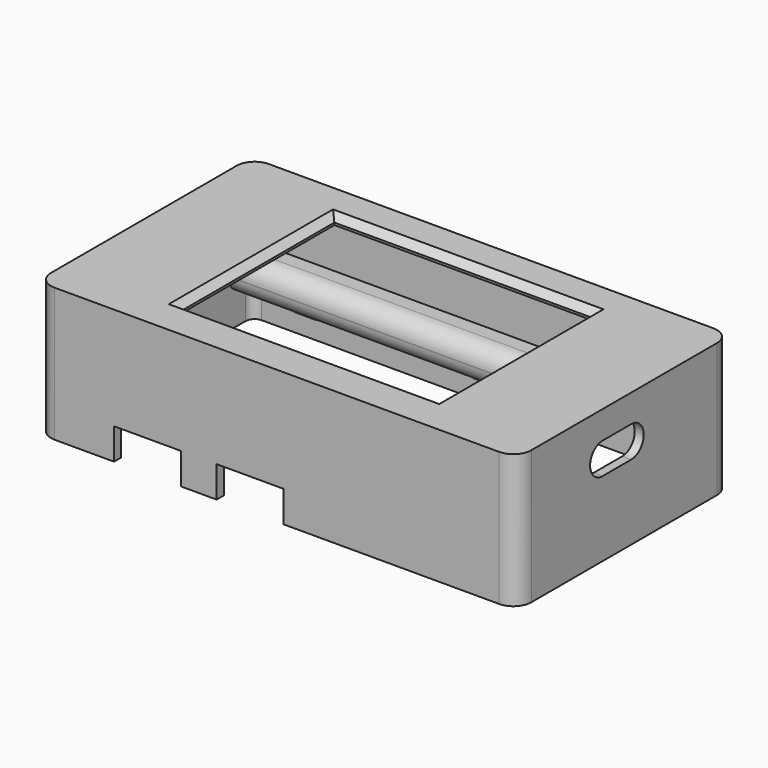
from build123d import *

# Parameters (mm, degrees)
CYLINDER016_R     = 2.65
CYLINDER016_DEPTH = 90
BOX077_W          = 12
BOX077_H          = 7.6
BOX077_DEPTH      = 5.5
FILLET013_1_R     = 4
FILLET013_2_R     = 2.5
BOX076_W          = 80
BOX076_H          = 9
BOX076_DEPTH      = 8
FILLET012_1_R     = 4
FILLET012_2_R     = 3.95
BOX013_W          = 13
BOX013_H          = 12
BOX013_DEPTH      = 5
BOX014_W          = 3
BOX014_H          = 12
BOX014_DEPTH      = 4
BOX012_W          = 15
BOX012_H          = 8
BOX012_DEPTH      = 7
BOX010_W          = 13
BOX010_H          = 12
BOX010_DEPTH      = 5
BOX011_W          = 3
BOX011_H          = 12
BOX011_DEPTH      = 4
BOX009_W          = 15
BOX009_H          = 8
BOX009_DEPTH      = 7
BOX006_W          = 5
BOX006_H          = 1
BOX006_DEPTH      = 3
BOX007_W          = 5
BOX007_H          = 1
BOX007_DEPTH      = 3
BOX008_W          = 5
BOX008_H          = 1
BOX008_DEPTH      = 3
BOX003_W          = 5
BOX003_H          = 1
BOX003_DEPTH      = 3
BOX004_W          = 5
BOX004_H          = 1
BOX004_DEPTH      = 3
BOX005_W          = 5
BOX005_H          = 1
BOX005_DEPTH      = 3
EXTRUDE_DEPTH     = 10
BOX_W             = 57.6
BOX_H             = 43
BOX_DEPTH         = 20
BOX002_W          = 103.6
BOX002_H          = 56
BOX002_DEPTH      = 30
BOX001_W          = 107.6
BOX001_H          = 60
BOX001_DEPTH      = 30
FILLET_1_R        = 4
FILLET_2_R        = 2
CHAMFER_SIZE      = 1.5
CYLINDER007_R     = 1
CYLINDER007_DEPTH = 6
CYLINDER006_R     = 1
CYLINDER006_DEPTH = 6
CYLINDER005_R     = 1
CYLINDER005_DEPTH = 6
CYLINDER004_R     = 1
CYLINDER004_DEPTH = 6
CYLINDER003_R     = 2.5
CYLINDER003_DEPTH = 4.6
CYLINDER002_R     = 2.5
CYLINDER002_DEPTH = 4.6
CYLINDER001_R     = 2.5
CYLINDER001_DEPTH = 4.6
CYLINDER_R        = 2.5
CYLINDER_DEPTH    = 4.6
FILLET001_R       = 2
CHAMFER005_SIZE   = 0.4


with BuildPart() as sfera:
    # Sphere → Sphere (revolve)
    with BuildSketch(Plane(origin=(50, 87, 4), x_dir=(1, 0, 0), z_dir=(0, -1, 0))):
        with BuildLine():
            ThreePointArc((0, -1.5), (1.5, 0), (0, 1.5))
            Line((0, 1.5), (0, -1.5))
        make_face()
    revolve(axis=Axis((50, 87, 4), (0, 0, 1)))


with BuildPart() as cilindro016:
    # Cylinder016 → Cylinder016 (new body)
    with BuildSketch(Plane(origin=(12, 2.75, 2.5), x_dir=(0, 0, -1), z_dir=(1, 0, 0))):
        Circle(CYLINDER016_R)
    extrude(amount=CYLINDER016_DEPTH)


with BuildPart() as fusion047:
    # Box077 → Box077 (new body)
    with BuildSketch(Plane(origin=(0, 0.25, -0.25), x_dir=(1, 0, 0), z_dir=(0, 0, 1))):
        with Locations((6, 3.8)):
            Rectangle(BOX077_W, BOX077_H)
    extrude(amount=BOX077_DEPTH)

    # Fillet013 1
    fillet013_1_edges = [fusion047.edges().sort_by_distance(p)[0] for p in [
        (0, 7.85, 2.5),
    ]]
    fillet(fillet013_1_edges, radius=FILLET013_1_R)

    # Fillet013 2
    fillet013_2_edges = [fusion047.edges().sort_by_distance(p)[0] for p in [
        (6, 0.25, -0.25),
        (6, 0.25, 5.25),
    ]]
    fillet(fillet013_2_edges, radius=FILLET013_2_R)

    # Fusion047: union Cilindro016
    add(cilindro016.part)


with BuildPart() as fusion047_1:
    # Fusion047 placement: moved
    add(fusion047.part.moved(Location((43.7, 86.7, 1.5))))


with BuildPart() as fillet012:
    # Box076 → Box076 (new body)
    with BuildSketch(Plane.XY):
        with Locations((40, 4.5)):
            Rectangle(BOX076_W, BOX076_H)
    extrude(amount=BOX076_DEPTH)

    # Fillet012 1
    fillet012_1_edges = [fillet012.edges().sort_by_distance(p)[0] for p in [
        (0, 9, 4),
    ]]
    fillet(fillet012_1_edges, radius=FILLET012_1_R)

    # Fillet012 2
    fillet012_2_edges = [fillet012.edges().sort_by_distance(p)[0] for p in [
        (40, 0, 0),
        (40, 0, 8),
    ]]
    fillet(fillet012_2_edges, radius=FILLET012_2_R)


with BuildPart() as fillet012_1:
    # Fillet012 placement: moved
    add(fillet012.part.moved(Location((43.71, 85.2, 0))))


with BuildPart() as cubo013:
    # Box013 → Box013 (new body)
    with BuildSketch(Plane(origin=(1, 8, 1), x_dir=(1, 0, 0), z_dir=(0, 0, 1))):
        with Locations((6.5, 6)):
            Rectangle(BOX013_W, BOX013_H)
    extrude(amount=BOX013_DEPTH)


with BuildPart() as cubo014:
    # Box014 → Box014 (new body)
    with BuildSketch(Plane(origin=(5.5, 8, -3), x_dir=(1, 0, 0), z_dir=(0, 0, 1))):
        with Locations((1.5, 6)):
            Rectangle(BOX014_W, BOX014_H)
    extrude(amount=BOX014_DEPTH)


with BuildPart() as fusion011:
    # Box012 → Box012 (new body)
    with BuildSketch(Plane.XY):
        with Locations((7.5, 4)):
            Rectangle(BOX012_W, BOX012_H)
    extrude(amount=BOX012_DEPTH)

    # Fusion011: union Cubo013, Cubo014
    add(cubo013.part)
    add(cubo014.part)


with BuildPart() as fusion011_1:
    # Fusion011 placement: moved
    add(fusion011.part.moved(Location((23, 0, 0))))


with BuildPart() as cubo010:
    # Box010 → Box010 (new body)
    with BuildSketch(Plane(origin=(1, 8, 1), x_dir=(1, 0, 0), z_dir=(0, 0, 1))):
        with Locations((6.5, 6)):
            Rectangle(BOX010_W, BOX010_H)
    extrude(amount=BOX010_DEPTH)


with BuildPart() as cubo011:
    # Box011 → Box011 (new body)
    with BuildSketch(Plane(origin=(5.5, 8, -3), x_dir=(1, 0, 0), z_dir=(0, 0, 1))):
        with Locations((1.5, 6)):
            Rectangle(BOX011_W, BOX011_H)
    extrude(amount=BOX011_DEPTH)


with BuildPart() as fusion012:
    # Box009 → Box009 (new body)
    with BuildSketch(Plane.XY):
        with Locations((7.5, 4)):
            Rectangle(BOX009_W, BOX009_H)
    extrude(amount=BOX009_DEPTH)

    # Fusion010: union Cubo010, Cubo011
    add(cubo010.part)
    add(cubo011.part)

    # Fusion012: union Fusion011
    add(fusion011_1.part)


with BuildPart() as fusion012_1:
    # Fusion012 placement: moved
    add(fusion012.part.moved(Location((61, 34, -7))))


with BuildPart() as cubo006:
    # Box006 → Box006 (new body)
    with BuildSketch(Plane.XY):
        with Locations((2.5, 0.5)):
            Rectangle(BOX006_W, BOX006_H)
    extrude(amount=BOX006_DEPTH)


with BuildPart() as cubo007:
    # Box007 → Box007 (new body)
    with BuildSketch(Plane(origin=(40, 0, 0), x_dir=(1, 0, 0), z_dir=(0, 0, 1))):
        with Locations((2.5, 0.5)):
            Rectangle(BOX007_W, BOX007_H)
    extrude(amount=BOX007_DEPTH)


with BuildPart() as fusion008:
    # Box008 → Box008 (new body)
    with BuildSketch(Plane(origin=(80, 0, 0), x_dir=(1, 0, 0), z_dir=(0, 0, 1))):
        with Locations((2.5, 0.5)):
            Rectangle(BOX008_W, BOX008_H)
    extrude(amount=BOX008_DEPTH)

    # Fusion008: union Cubo006, Cubo007
    add(cubo006.part)
    add(cubo007.part)


with BuildPart() as fusion008_1:
    # Fusion008 placement: moved
    add(fusion008.part.moved(Location((55, 92.3, 2))))


with BuildPart() as cubo003:
    # Box003 → Box003 (new body)
    with BuildSketch(Plane(origin=(-5, 0, 0), x_dir=(1, 0, 0), z_dir=(0, 0, 1))):
        with Locations((2.5, 0.5)):
            Rectangle(BOX003_W, BOX003_H)
    extrude(amount=BOX003_DEPTH)


with BuildPart() as cubo004:
    # Box004 → Box004 (new body)
    with BuildSketch(Plane(origin=(50, 0, 0), x_dir=(1, 0, 0), z_dir=(0, 0, 1))):
        with Locations((2.5, 0.5)):
            Rectangle(BOX004_W, BOX004_H)
    extrude(amount=BOX004_DEPTH)


with BuildPart() as fusion009:
    # Box005 → Box005 (new body)
    with BuildSketch(Plane(origin=(80, 0, 0), x_dir=(1, 0, 0), z_dir=(0, 0, 1))):
        with Locations((2.5, 0.5)):
            Rectangle(BOX005_W, BOX005_H)
    extrude(amount=BOX005_DEPTH)

    # Fusion007: union Cubo003, Cubo004
    add(cubo003.part)
    add(cubo004.part)


with BuildPart() as fusion009_1:
    # Fusion007 placement: moved
    add(fusion009.part.moved(Location((55, 35.3, 2))))

    # Fusion009: union Fusion008
    add(fusion008_1.part)


with BuildPart() as fusion009_2:
    # Fusion009 placement: moved
    add(fusion009_1.part.moved(Location((0, 0, -5))))


with BuildPart() as extrude_body:
    # Sketch → Extrude (new body)
    with BuildSketch(Plane.YZ):
        with BuildLine():
            Line((58.28, 4.78), (66.28, 4.78))
            ThreePointArc((66.28, 4.78), (69.78, 8.28), (66.28, 11.78))
            Line((58.28, 11.78), (66.28, 11.78))
            ThreePointArc((58.28, 11.78), (54.78, 8.28), (58.28, 4.78))
        make_face()
    extrude(amount=EXTRUDE_DEPTH)


with BuildPart() as extrude_body_1:
    # Extrude placement: moved
    add(extrude_body.part.moved(Location((145, 0, 5))))


with BuildPart() as cubo:
    # Box → Box (new body)
    with BuildSketch(Plane(origin=(68.7, 43.4, 10), x_dir=(1, 0, 0), z_dir=(0, 0, 1))):
        with Locations((28.8, 21.5)):
            Rectangle(BOX_W, BOX_H)
    extrude(amount=BOX_DEPTH)


with BuildPart() as cubo002:
    # Box002 → Box002 (new body)
    with BuildSketch(Plane(origin=(50.7, 36.3, -9), x_dir=(1, 0, 0), z_dir=(0, 0, 1))):
        with Locations((51.8, 28)):
            Rectangle(BOX002_W, BOX002_H)
    extrude(amount=BOX002_DEPTH)


with BuildPart() as chamfer_body:
    # Box001 → Box001 (new body)
    with BuildSketch(Plane(origin=(48.7, 34.3, -7), x_dir=(1, 0, 0), z_dir=(0, 0, 1))):
        with Locations((53.8, 30)):
            Rectangle(BOX001_W, BOX001_H)
    extrude(amount=BOX001_DEPTH)

    # Cut001: cut Cubo002
    add(cubo002.part, mode=Mode.SUBTRACT)

    # Fillet 1
    fillet_1_edges = [chamfer_body.edges().sort_by_distance(p)[0] for p in [
        (48.7, 34.3, 8),
        (48.7, 94.3, 8),
        (156.3, 34.3, 8),
        (156.3, 94.3, 8),
    ]]
    fillet(fillet_1_edges, radius=FILLET_1_R)

    # Fillet 2
    fillet_2_edges = [chamfer_body.edges().sort_by_distance(p)[0] for p in [
        (154.3, 36.3, 7),
        (102.5, 36.3, 21),
        (50.7, 36.3, 7),
        (154.3, 64.3, 21),
        (154.3, 92.3, 7),
        (102.5, 92.3, 21),
        (50.7, 92.3, 7),
        (50.7, 64.3, 21),
    ]]
    fillet(fillet_2_edges, radius=FILLET_2_R)


with BuildPart() as chamfer_body_1:
    # Fillet placement: moved
    add(chamfer_body.part.moved(Location((-5, 0, 0))))

    # Cut002: cut Cubo
    add(cubo.part, mode=Mode.SUBTRACT)

    # Chamfer
    chamfer_edges = [chamfer_body_1.edges().sort_by_distance(p)[0] for p in [
        (97.5, 43.4, 23),
        (126.3, 64.9, 23),
        (97.5, 86.4, 23),
        (68.7, 64.9, 23),
    ]]
    chamfer(chamfer_edges, length=CHAMFER_SIZE)


with BuildPart() as cilindro007:
    # Cylinder007 → Cylinder007 (new body)
    with BuildSketch(Plane(origin=(60.75, 85.25, 0), x_dir=(1, 0, 0), z_dir=(0, 0, 1))):
        Circle(CYLINDER007_R)
    extrude(amount=CYLINDER007_DEPTH)


with BuildPart() as fusion004:
    # Cylinder006 → Cylinder006 (new body)
    with BuildSketch(Plane(origin=(60.75, 43.4, 0), x_dir=(1, 0, 0), z_dir=(0, 0, 1))):
        Circle(CYLINDER006_R)
    extrude(amount=CYLINDER006_DEPTH)

    # Fusion004: union Cilindro007
    add(cilindro007.part)


with BuildPart() as fusion004_1:
    # Fusion004 placement: moved
    add(fusion004.part.moved(Location((78.25, 0, 0))))


with BuildPart() as cilindro005:
    # Cylinder005 → Cylinder005 (new body)
    with BuildSketch(Plane(origin=(60.75, 85.25, 0), x_dir=(1, 0, 0), z_dir=(0, 0, 1))):
        Circle(CYLINDER005_R)
    extrude(amount=CYLINDER005_DEPTH)


with BuildPart() as fusion005:
    # Cylinder004 → Cylinder004 (new body)
    with BuildSketch(Plane(origin=(60.75, 43.4, 0), x_dir=(1, 0, 0), z_dir=(0, 0, 1))):
        Circle(CYLINDER004_R)
    extrude(amount=CYLINDER004_DEPTH)

    # Fusion003: union Cilindro005
    add(cilindro005.part)

    # Fusion005: union Fusion004
    add(fusion004_1.part)


with BuildPart() as fusion005_1:
    # Fusion005 placement: moved
    add(fusion005.part.moved(Location((0, 0, -0.2))))


with BuildPart() as cilindro003:
    # Cylinder003 → Cylinder003 (new body)
    with BuildSketch(Plane(origin=(60.75, 85.25, -0.2), x_dir=(1, 0, 0), z_dir=(0, 0, 1))):
        Circle(CYLINDER003_R)
    extrude(amount=CYLINDER003_DEPTH)


with BuildPart() as fusion001:
    # Cylinder002 → Cylinder002 (new body)
    with BuildSketch(Plane(origin=(60.75, 43.4, -0.2), x_dir=(1, 0, 0), z_dir=(0, 0, 1))):
        Circle(CYLINDER002_R)
    extrude(amount=CYLINDER002_DEPTH)

    # Fusion001: union Cilindro003
    add(cilindro003.part)


with BuildPart() as fusion001_1:
    # Fusion001 placement: moved
    add(fusion001.part.moved(Location((78.25, 0, 0))))


with BuildPart() as cilindro001:
    # Cylinder001 → Cylinder001 (new body)
    with BuildSketch(Plane(origin=(60.75, 85.25, -0.2), x_dir=(1, 0, 0), z_dir=(0, 0, 1))):
        Circle(CYLINDER001_R)
    extrude(amount=CYLINDER001_DEPTH)


with BuildPart() as box:
    # Cylinder → Cylinder (new body)
    with BuildSketch(Plane(origin=(60.75, 43.4, -0.2), x_dir=(1, 0, 0), z_dir=(0, 0, 1))):
        Circle(CYLINDER_R)
    extrude(amount=CYLINDER_DEPTH)

    # Fusion: union Cilindro001
    add(cilindro001.part)

    # Fusion002: union Fusion001
    add(fusion001_1.part)

    # Cut: cut Fusion005
    add(fusion005_1.part, mode=Mode.SUBTRACT)


with BuildPart() as box_1:
    # Cut placement: moved
    add(box.part.moved(Location((0, 0, 16.6))))

    # Fusion006: union Chamfer body
    add(chamfer_body_1.part)

    # Fillet001
    fillet001_edges = [box_1.edges().sort_by_distance(p)[0] for p in [
        (58.25, 43.4, 21),
        (136.5, 43.4, 21),
        (58.25, 85.25, 21),
        (136.5, 85.25, 21),
    ]]
    fillet(fillet001_edges, radius=FILLET001_R)

    # Cut003: cut Extrude body
    add(extrude_body_1.part, mode=Mode.SUBTRACT)

    # Cut004: cut Fusion009
    add(fusion009_2.part, mode=Mode.SUBTRACT)

    # Cut005: cut Fusion012
    add(fusion012_1.part, mode=Mode.SUBTRACT)

    # Fusion048: union Fillet012
    add(fillet012_1.part)

    # Cut017: cut Fusion047
    add(fusion047_1.part, mode=Mode.SUBTRACT)

    # Cut018: cut Sfera
    add(sfera.part, mode=Mode.SUBTRACT)

    # Chamfer005
    chamfer005_edges = [box_1.edges().sort_by_distance(p)[0] for p in [
        (59.75, 43.4, 16.4),
        (138, 43.4, 16.4),
        (59.75, 85.25, 16.4),
        (138, 85.25, 16.4),
    ]]
    chamfer(chamfer005_edges, length=CHAMFER005_SIZE)


solid = box_1.part
